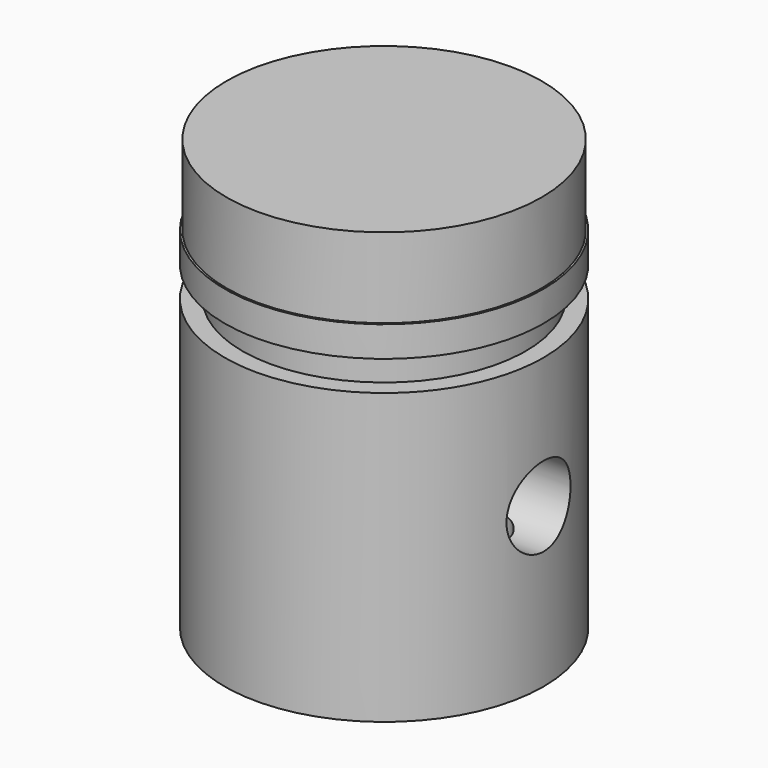
from build123d import *

# Parameters (mm, degrees)
F0_R      = 12.6619
F1_DEPTH  = 34.1376
F2_R      = 12.6619
F2_R_2    = 12.5095
F3_DEPTH  = 6.35
F4_W      = 2.7602688904
F4_H      = 2.3876
F7_R      = 3.175
F8_DEPTH  = 25.3629001398
F9_R      = 11.1125
F10_DEPTH = 5.08
F12_D     = 3.175
F12_DEPTH = 12.7
F12_TIP   = 0.9538662327
F14_DEPTH = 20.6502


with BuildPart() as f1:
    # F0 (on Top) → F1 (new body)
    with BuildSketch(Plane.XY):
        Circle(F0_R)
    extrude(amount=F1_DEPTH)

    # F2 (on face) → F3 (cut)
    with BuildSketch(Plane.XY.offset(34.1376)):
        Circle(F2_R)
        Circle(F2_R_2, mode=Mode.SUBTRACT)
    extrude(amount=-F3_DEPTH, mode=Mode.SUBTRACT)

    # F5: sweep along a path in F5_path
    with BuildLine(Plane(origin=(12.6619, 0, 0), x_dir=(0, -1, 0), z_dir=(0, 0, -1))) as f5_path:
        CenterArc((0, 12.6619), 12.6619, 0, 360)
    # F4 (on Front) → F5 (sweep, cut)
    with BuildSketch(Plane.XZ):
        with Locations((12.6323344452, 24.1808)):
            Rectangle(F4_W, F4_H)
    sweep(path=f5_path.line, mode=Mode.SUBTRACT)

    # F7 (on offset) → F8 (cut, through all)
    with BuildSketch(Plane.YZ.offset(12.7)):
        with Locations((0, 12.6082114875)):
            Circle(F7_R)
    extrude(amount=-F8_DEPTH, mode=Mode.SUBTRACT)

    # F9 (on face) → F10 (cut)
    with BuildSketch(Plane(origin=(0, 0, 0), x_dir=(1, 0, 0), z_dir=(0, 0, -1))):
        Circle(F9_R)
    extrude(amount=-F10_DEPTH, mode=Mode.SUBTRACT)

    # F12
    with Locations(Plane(origin=(0, 0, 5.08), x_dir=(1, 0, 0), z_dir=(0, 0, -1))):
        with Locations((8.255, 0)):
            Hole(F12_D / 2, depth=F12_DEPTH)
            with Locations((0, 0, -(F12_DEPTH + F12_TIP / 2))):  # 118° drill point
                Cone(0, F12_D / 2, F12_TIP, mode=Mode.SUBTRACT)

    # F13 (on face) → F14 (cut)
    with BuildSketch(Plane(origin=(0, 0, 0), x_dir=(1, 0, 0), z_dir=(0, 0, -1))):
        with BuildLine():
            Line((3.1693306608, 10.5165127916), (-3.1693306608, 10.5165127916))
            ThreePointArc((-3.1693306608, 10.5165127916), (-3.6105807444, 10.4753850637), (-4.0366292755, 10.3534187756))
            ThreePointArc((-4.0366292755, 10.3534187756), (-5.1405480425, 9.4761083207), (-5.5569306608, 8.1289127916))
            Line((-5.5569306608, 8.1289127916), (-5.5569306608, -8.1289127916))
            ThreePointArc((-5.5569306608, -8.1289127916), (-5.1405480425, -9.4761083207), (-4.0366292755, -10.3534187756))
            ThreePointArc((-4.0366292755, -10.3534187756), (-3.6105807444, -10.4753850637), (-3.1693306608, -10.5165127916))
            Line((-3.1693306608, -10.5165127916), (3.1693306608, -10.5165127916))
            ThreePointArc((3.1693306608, -10.5165127916), (3.6105807444, -10.4753850637), (4.0366292755, -10.3534187756))
            ThreePointArc((4.0366292755, -10.3534187756), (5.1405480425, -9.4761083207), (5.5569306608, -8.1289127916))
            Line((5.5569306608, -8.1289127916), (5.5569306608, 8.1289127916))
            ThreePointArc((5.5569306608, 8.1289127916), (5.1405480425, 9.4761083207), (4.0366292755, 10.3534187756))
            ThreePointArc((4.0366292755, 10.3534187756), (3.6105807444, 10.4753850637), (3.1693306608, 10.5165127916))
        make_face()
    extrude(amount=-F14_DEPTH, mode=Mode.SUBTRACT)


solid = f1.part
